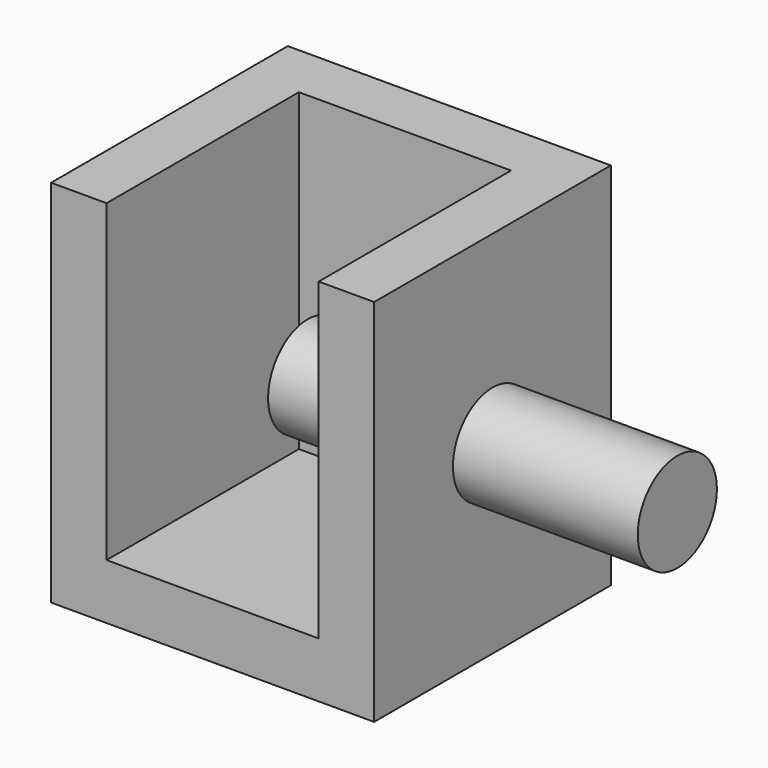
from build123d import *

# Parameters (mm, degrees)
F0_W      = 44.395774
F0_H      = 40.661618
F1_DEPTH  = 25.4
F1_FACE_W = 44.395774
F1_FACE_H = 40.661618
F2_DEPTH  = 25.4
F3_T      = -7.62
F4_R      = 6.796933
F5_DEPTH  = 25.4
F5_FACE_R = 6.796933
F6_DEPTH  = 50.8


with BuildPart() as f1:
    # F0 (on Top) → F1 (new body)
    with BuildSketch(Plane.XY):
        Rectangle(F0_W, F0_H)
    extrude(amount=F1_DEPTH)

    # F1_face (on face) → F2 (join)
    with BuildSketch(Plane(origin=(0, 0, 0), x_dir=(1, 0, 0), z_dir=(0, 0, -1))):
        Rectangle(F1_FACE_W, F1_FACE_H)
    extrude(amount=F2_DEPTH)

    # F3
    f3_openings = [f1.faces().sort_by_distance(p)[0] for p in [
        (0, -20.330809, 0),
        (0, 0, 25.4),
    ]]
    offset(amount=F3_T, openings=f3_openings)

    # F4 (on face) → F5 (join)
    with BuildSketch(Plane.YZ.offset(22.197887)):
        Circle(F4_R)
    extrude(amount=-F5_DEPTH)

    # F5_face (on face) → F6 (join)
    with BuildSketch(Plane(origin=(-3.202113, 0, 0), x_dir=(0, 1, 0), z_dir=(-1, 0, 0))):
        Circle(F5_FACE_R)
    extrude(amount=-F6_DEPTH)


solid = f1.part
